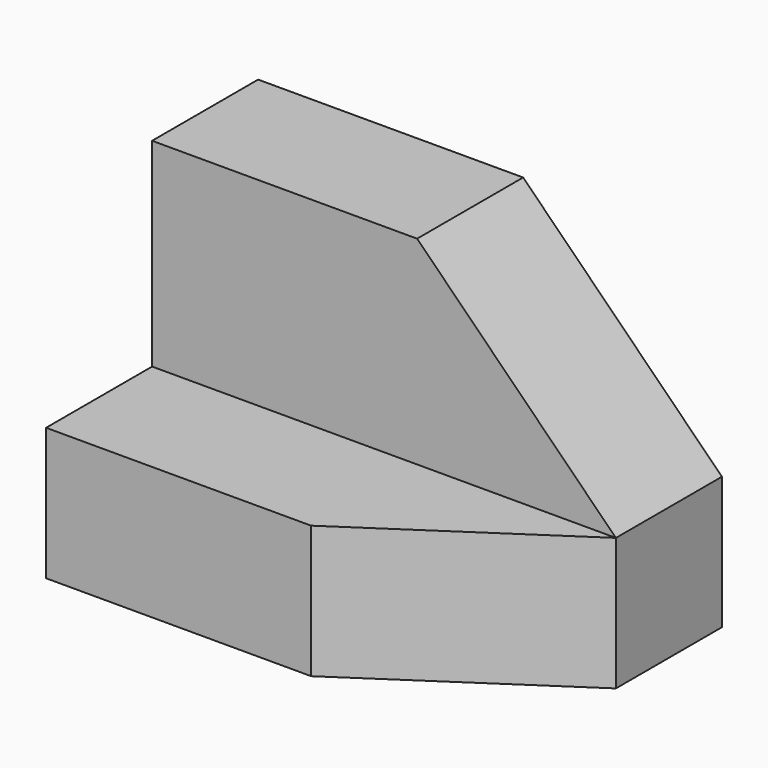
from build123d import *

# Parameters (mm, degrees)
F0_W     = 44.45
F0_H     = 31.75
F1_DEPTH = 25.4
F2_W     = 44.45
F2_H     = 19.05
F3_DEPTH = 12.7
F5_DEPTH = 12.701
F7_DEPTH = 12.701


with BuildPart() as f1:
    # F0 (on Front) → F1 (new body)
    with BuildSketch(Plane.XZ):
        with Locations((22.225, 15.875)):
            Rectangle(F0_W, F0_H)
    extrude(amount=F1_DEPTH)

    # F2 (on face) → F3 (cut)
    with BuildSketch(Plane.XZ.offset(25.4)):
        with Locations((22.225, 22.225)):
            Rectangle(F2_W, F2_H)
    extrude(amount=-F3_DEPTH, mode=Mode.SUBTRACT)

    # F4 (on face) → F5 (cut, through all)
    with BuildSketch(Plane.XZ.offset(12.7)):
        Polygon((44.45, 31.75), (25.4, 31.75), (44.45, 12.7), align=None)
    extrude(amount=-F5_DEPTH, mode=Mode.SUBTRACT)

    # F6 (on face) → F7 (cut, through all)
    with BuildSketch(Plane.XY.offset(12.7)):
        Polygon((44.45, -25.4), (44.45, -12.7), (25.4, -25.4), align=None)
    extrude(amount=-F7_DEPTH, mode=Mode.SUBTRACT)


solid = f1.part
